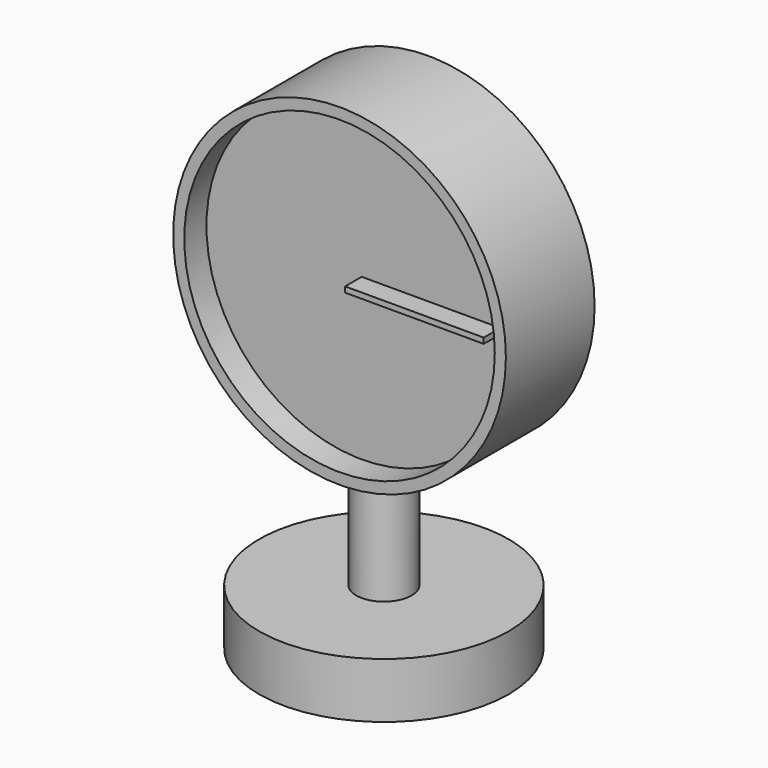
from build123d import *

# Parameters (mm, degrees)
F0_R     = 28.575
F1_DEPTH = 12.7
F2_R     = 6.35
F2_R_2   = 5.08
F3_DEPTH = 25.4
F5_DEPTH = 12.7
F6_R     = 35.56
F7_DEPTH = 6.35
F8_W     = 31.75
F8_H     = 1.27
F9_DEPTH = 4.7498


with BuildPart() as f1:
    # F0 (on Top) → F1 (new body)
    with BuildSketch(Plane.XY):
        Circle(F0_R)
    extrude(amount=F1_DEPTH)

    # F2 (on face) → F3 (join)
    with BuildSketch(Plane.XY.offset(12.7)):
        Circle(F2_R)
        Circle(F2_R_2, mode=Mode.SUBTRACT)
    extrude(amount=F3_DEPTH)

    # F4 (on Front) → F5 (join, symmetric)
    with BuildSketch(Plane.XZ):
        with BuildLine():
            ThreePointArc((0, 38.1), (26.9407683632, 49.2592316368), (38.1, 76.2))
            ThreePointArc((38.1, 76.2), (-26.9407683632, 103.1407683632), (0, 38.1))
        make_face()
    extrude(amount=F5_DEPTH, both=True)

    # F6 (on face) → F7 (cut)
    with BuildSketch(Plane.XZ.offset(12.7)):
        with Locations((0, 76.2)):
            Circle(F6_R)
    extrude(amount=-F7_DEPTH, mode=Mode.SUBTRACT)

    # F8 (on face) → F9 (join)
    with BuildSketch(Plane.XZ.offset(6.35)):
        with Locations((15.875, 76.835)):
            Rectangle(F8_W, F8_H)
    extrude(amount=F9_DEPTH)


solid = f1.part
